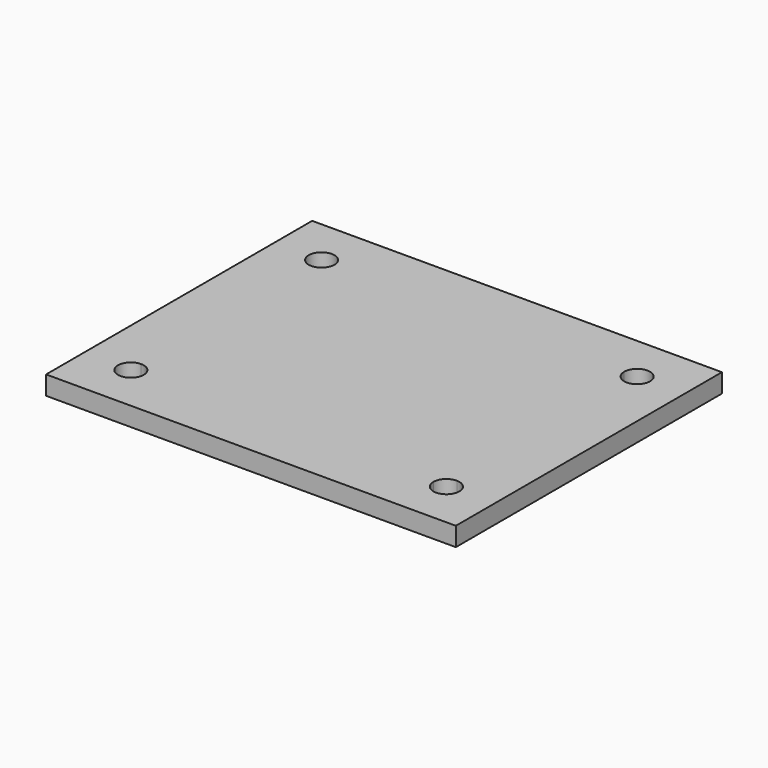
from build123d import *

# Parameters (mm, degrees)
F1_DEPTH = 1.6
F3_DEPTH = 1.601


with BuildPart() as f1:
    # F0 (on Top) → F1 (new body)
    with BuildSketch(Plane.XY):
        Polygon((17.4, -14.125), (-17.4, 14.125), (-17.4, -14.125), align=None)
        Polygon((17.4, 14.125), (-17.4, 14.125), (17.4, -14.125), align=None)
    extrude(amount=F1_DEPTH)

    # F2 (on face) → F3 (cut, through all)
    with BuildSketch(Plane.XY.offset(1.6)):
        with BuildLine():
            ThreePointArc((-12.3, 10.125), (-14.177817, 10.902817), (-13.4, 9.025))
            Line((-13.4, 9.025), (-13.4, 10.125))
            Line((-13.4, 10.125), (-12.3, 10.125))
        make_face()
        with BuildLine():
            Line((-13.4, 10.125), (-13.4, 9.025))
            ThreePointArc((-13.4, 9.025), (-12.622183, 9.347183), (-12.3, 10.125))
            Line((-12.3, 10.125), (-13.4, 10.125))
        make_face()
        with BuildLine():
            ThreePointArc((-13.4, -9.025), (-14.177817, -10.902817), (-12.3, -10.125))
            Line((-12.3, -10.125), (-13.4, -10.125))
            Line((-13.4, -10.125), (-13.4, -9.025))
        make_face()
        with BuildLine():
            Line((-13.4, -10.125), (-12.3, -10.125))
            ThreePointArc((-12.3, -10.125), (-12.622183, -9.347183), (-13.4, -9.025))
            Line((-13.4, -9.025), (-13.4, -10.125))
        make_face()
        with BuildLine():
            Line((13.4, -10.125), (12.3, -10.125))
            ThreePointArc((12.3, -10.125), (13.4, -11.225), (14.5, -10.125))
            ThreePointArc((14.5, -10.125), (14.177817, -9.347183), (13.4, -9.025))
            Line((13.4, -9.025), (13.4, -10.125))
        make_face()
        with BuildLine():
            ThreePointArc((13.4, -9.025), (12.622183, -9.347183), (12.3, -10.125))
            Line((12.3, -10.125), (13.4, -10.125))
            Line((13.4, -10.125), (13.4, -9.025))
        make_face()
        with BuildLine():
            Line((13.4, 10.125), (13.4, 9.025))
            ThreePointArc((13.4, 9.025), (14.177817, 9.347183), (14.5, 10.125))
            ThreePointArc((14.5, 10.125), (13.4, 11.225), (12.3, 10.125))
            Line((12.3, 10.125), (13.4, 10.125))
        make_face()
        with BuildLine():
            ThreePointArc((12.3, 10.125), (12.622183, 9.347183), (13.4, 9.025))
            Line((13.4, 9.025), (13.4, 10.125))
            Line((13.4, 10.125), (12.3, 10.125))
        make_face()
    extrude(amount=-F3_DEPTH, mode=Mode.SUBTRACT)


solid = f1.part
